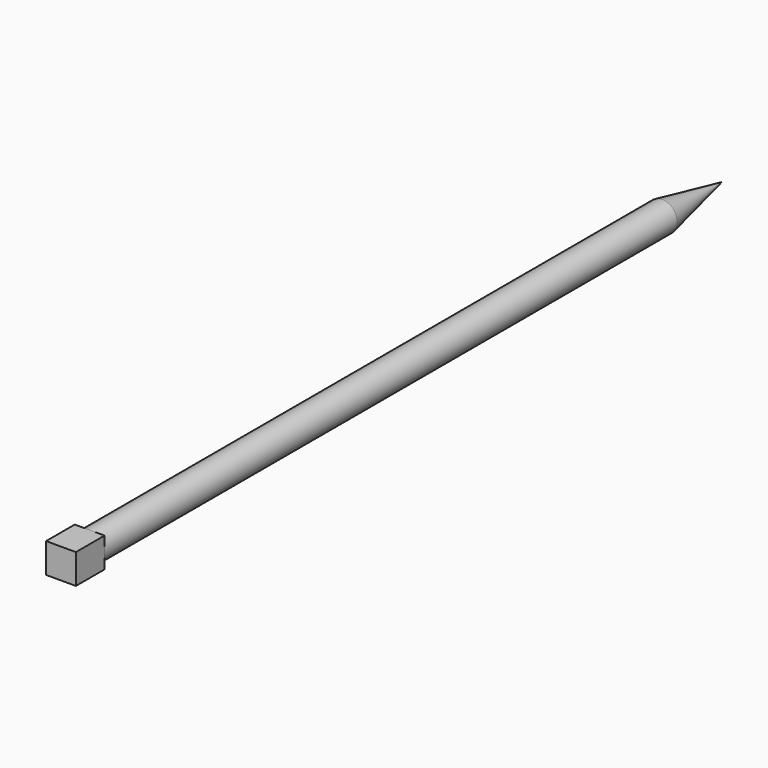
from build123d import *

# Parameters (mm, degrees)
F0_R     = 3.175
F1_DEPTH = 76.2
F5_DEPTH = 3.175


with BuildPart() as f1:
    # F0 (on Front) → F1 (new body, symmetric)
    with BuildSketch(Plane.XZ):
        Circle(F0_R)
    extrude(amount=F1_DEPTH, both=True)

    # F2 (on Top) → F3 (revolve)
    with BuildSketch(Plane.XY):
        Polygon((0, 92.075), (0, 76.2), (3.175, 76.2), align=None)
    revolve(axis=Axis((0, 84.1375, 0), (0, -1, 0)))

    # F4 (on Top) → F5 (join, symmetric)
    with BuildSketch(Plane.XY):
        Polygon((3.175, -76.2), (0, -76.2), (-3.175, -76.2), (-3.175, -83.82), (3.175, -83.82), align=None)
    extrude(amount=F5_DEPTH, both=True)


solid = f1.part
